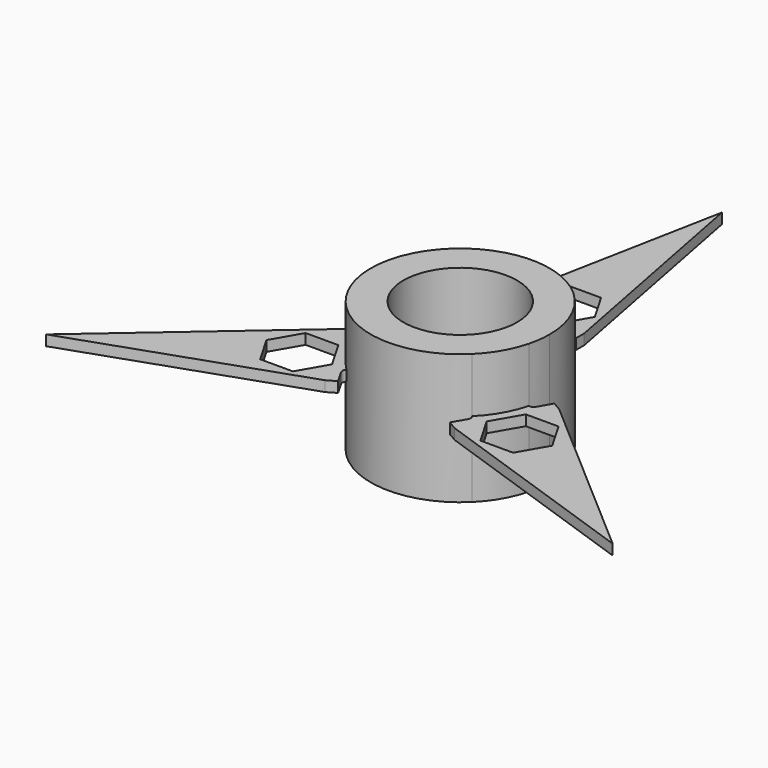
from build123d import *

# Parameters (mm, degrees)
F1_DEPTH = 2
F0_R     = 10.9
F2_DEPTH = 12.5


with BuildPart() as f1:
    # F0 (on Top) → F1 (new body)
    with BuildSketch(Plane.XY):
        with BuildLine():
            ThreePointArc((-12.056622, -12.218732), (-14.86589, -8.582825), (-16.610044, -4.331975))
            ThreePointArc((-16.610044, -4.331975), (-17.215061, -4.259943), (-17.665974, -3.850173))
            Line((-17.665974, -3.850173), (-19.119134, -1.333226))
            Line((-19.119134, -1.333226), (-20.848044, -2.331413))
            Line((-20.848044, -2.331413), (-54.337897, -31.372))
            Line((-54.337897, -31.372), (-12.443085, -16.889229))
            Line((-12.443085, -16.889229), (-10.714175, -15.891042))
            Line((-10.714175, -15.891042), (-12.167334, -13.374096))
            ThreePointArc((-12.167334, -13.374096), (-12.296749, -12.778709), (-12.056622, -12.218732))
        make_face()
        Polygon((-24.266077, -17.643359), (-27.412636, -12.193359), (-24.266077, -6.743359), (-17.972959, -6.743359), (-14.8264, -12.193359), (-17.972959, -17.643359), align=None, mode=Mode.SUBTRACT)
        with BuildLine():
            ThreePointArc((17.665974, -3.850173), (17.215061, -4.259943), (16.610044, -4.331975))
            ThreePointArc((16.610044, -4.331975), (14.86589, -8.582825), (12.056622, -12.218732))
            ThreePointArc((12.056622, -12.218732), (12.296749, -12.778709), (12.167334, -13.374096))
            Line((12.167334, -13.374096), (10.714175, -15.891042))
            Line((10.714175, -15.891042), (12.443085, -16.889229))
            Line((12.443085, -16.889229), (54.337897, -31.372))
            Line((54.337897, -31.372), (20.848044, -2.331413))
            Line((20.848044, -2.331413), (19.119134, -1.333226))
            Line((19.119134, -1.333226), (17.665974, -3.850173))
        make_face()
        Polygon((27.412636, -12.193359), (24.266077, -17.643359), (17.972959, -17.643359), (14.8264, -12.193359), (17.972959, -6.743359), (24.266077, -6.743359), align=None, mode=Mode.SUBTRACT)
        with BuildLine():
            Line((-8.404959, 17.224269), (-5.49864, 17.224269))
            ThreePointArc((-5.49864, 17.224269), (-4.918312, 17.038652), (-4.553421, 16.550707))
            ThreePointArc((-4.553421, 16.550707), (0, 17.165651), (4.553421, 16.550707))
            ThreePointArc((4.553421, 16.550707), (4.918312, 17.038652), (5.49864, 17.224269))
            Line((5.49864, 17.224269), (8.404959, 17.224269))
            Line((8.404959, 17.224269), (8.404959, 19.220643))
            Line((8.404959, 19.220643), (0, 62.743999))
            Line((0, 62.743999), (-8.404959, 19.220643))
            Line((-8.404959, 19.220643), (-8.404959, 17.224269))
        make_face()
        Polygon((6.293118, 24.386719), (3.146559, 18.936719), (-3.146559, 18.936719), (-6.293118, 24.386719), (-3.146559, 29.836719), (3.146559, 29.836719), align=None, mode=Mode.SUBTRACT)
    extrude(amount=F1_DEPTH)


with BuildPart() as f2:
    # F0 (on Top) → F2 (new body, symmetric)
    with BuildSketch(Plane.XY):
        with BuildLine():
            ThreePointArc((4.553421, 16.550707), (0, 17.165651), (-4.553421, 16.550707))
            ThreePointArc((-4.553421, 16.550707), (-14.86589, 8.582825), (-16.610044, -4.331975))
            ThreePointArc((-16.610044, -4.331975), (-14.86589, -8.582825), (-12.056622, -12.218732))
            ThreePointArc((-12.056622, -12.218732), (0, -17.165651), (12.056622, -12.218732))
            ThreePointArc((12.056622, -12.218732), (14.86589, -8.582825), (16.610044, -4.331975))
            ThreePointArc((16.610044, -4.331975), (17.026182, -2.18373), (17.165651, 0))
            ThreePointArc((17.165651, 0), (13.653241, 10.404257), (4.553421, 16.550707))
        make_face()
        Circle(F0_R, mode=Mode.SUBTRACT)
    extrude(amount=F2_DEPTH, both=True)


solid = Compound([f1.part, f2.part])
